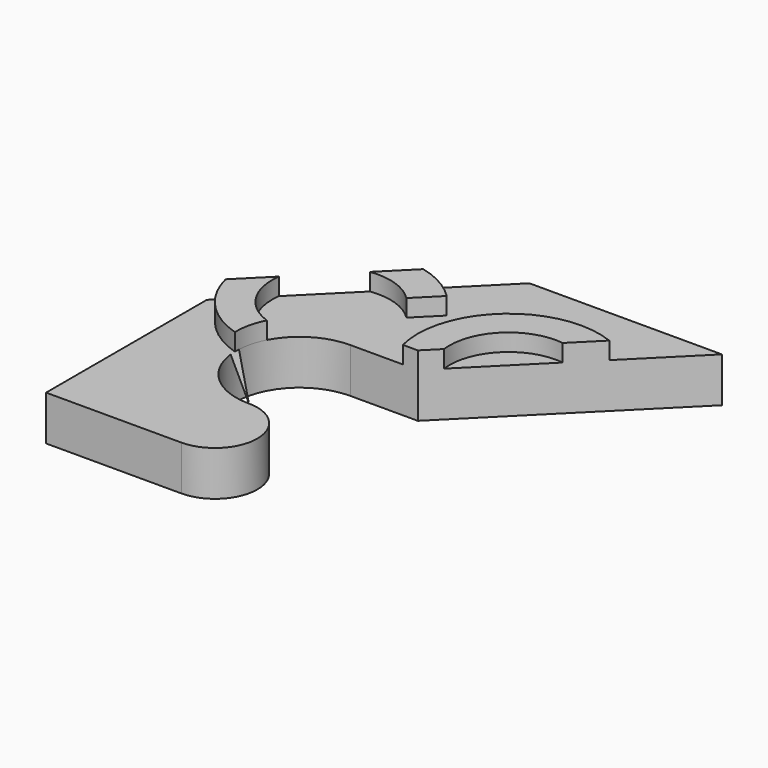
from build123d import *

# Parameters (mm, degrees)
F1_DEPTH = 6.731
F3_DEPTH = 2.5908


with BuildPart() as f1:
    # F0 (on Top) → F1 (new body)
    with BuildSketch(Plane.XY):
        with BuildLine():
            Line((-20.32, -6.35), (0, -6.35))
            ThreePointArc((0, -6.35), (6.35, 0), (0, 6.35))
            ThreePointArc((0, 6.35), (-9.525, 15.875), (0, 25.4))
            Line((0, 25.4), (10.16, 25.4))
            Line((10.16, 25.4), (35.551368, 50.791368))
            Line((35.551368, 50.791368), (6.620768, 50.791368))
            Line((6.620768, 50.791368), (-20.32, 23.8506))
            Line((-20.32, 23.8506), (-20.32, -6.35))
        make_face()
    extrude(amount=F1_DEPTH)

    # F2 (on face) → F3 (join)
    with BuildSketch(Plane.XY.offset(6.731)):
        with BuildLine():
            ThreePointArc((-8.445624, 20.27921), (-13.078556, 24.037165), (-14.29292, 29.87768))
            Line((-14.29292, 29.87768), (-18.748772, 25.421828))
            ThreePointArc((-18.748772, 25.421828), (-15.427316, 19.304406), (-9.521578, 15.619685))
            ThreePointArc((-9.521578, 15.619685), (-9.28078, 18.01807), (-8.445624, 20.27921))
        make_face()
        with BuildLine():
            Line((0.799779, 34.948413), (4.167375, 38.316009))
            ThreePointArc((4.167375, 38.316009), (1.20841, 40.560565), (-2.245993, 41.924607))
            Line((-2.245993, 41.924607), (-6.701846, 37.468754))
            ThreePointArc((-6.701846, 37.468754), (-2.655126, 37.089333), (0.799779, 34.948413))
        make_face()
        with BuildLine():
            ThreePointArc((12.336526, 27.576526), (14.872021, 34.962779), (22.258274, 37.498274))
            Line((22.258274, 37.498274), (26.145541, 41.385541))
            ThreePointArc((26.145541, 41.385541), (12.160054, 38.944225), (7.904723, 25.4))
            Line((7.904723, 25.4), (10.16, 25.4))
            Line((10.16, 25.4), (12.336526, 27.576526))
        make_face()
    extrude(amount=F3_DEPTH)


solid = f1.part
